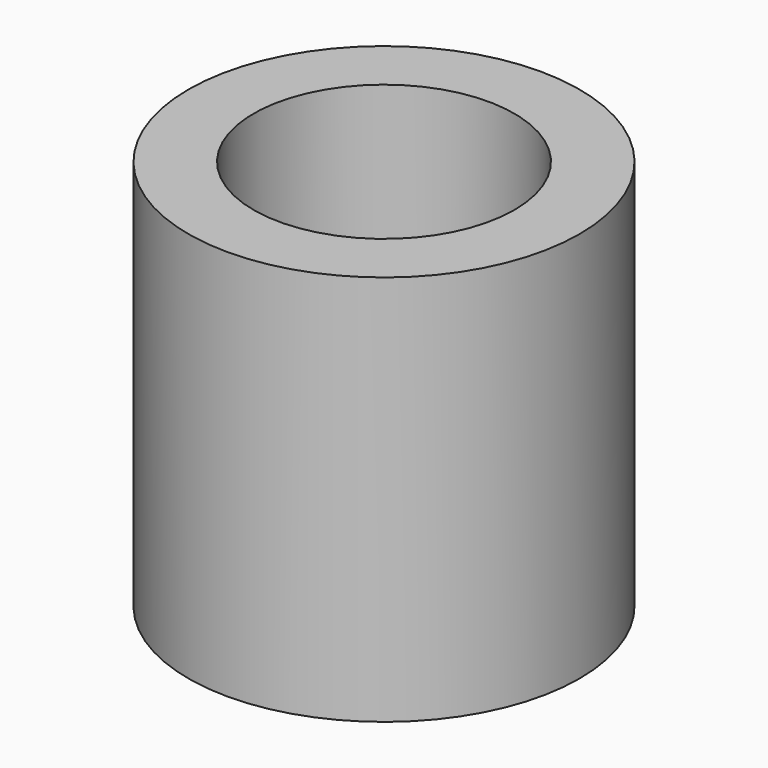
from build123d import *

# Parameters (mm, degrees)
SKETCH_R   = 0.75
SKETCH_R_2 = 0.5
PAD_DEPTH  = 1.5


with BuildPart() as part:
    # Sketch → Pad (new body)
    with BuildSketch(Plane.XY):
        Circle(SKETCH_R)
        Circle(SKETCH_R_2, mode=Mode.SUBTRACT)
    extrude(amount=PAD_DEPTH)


solid = part.part
